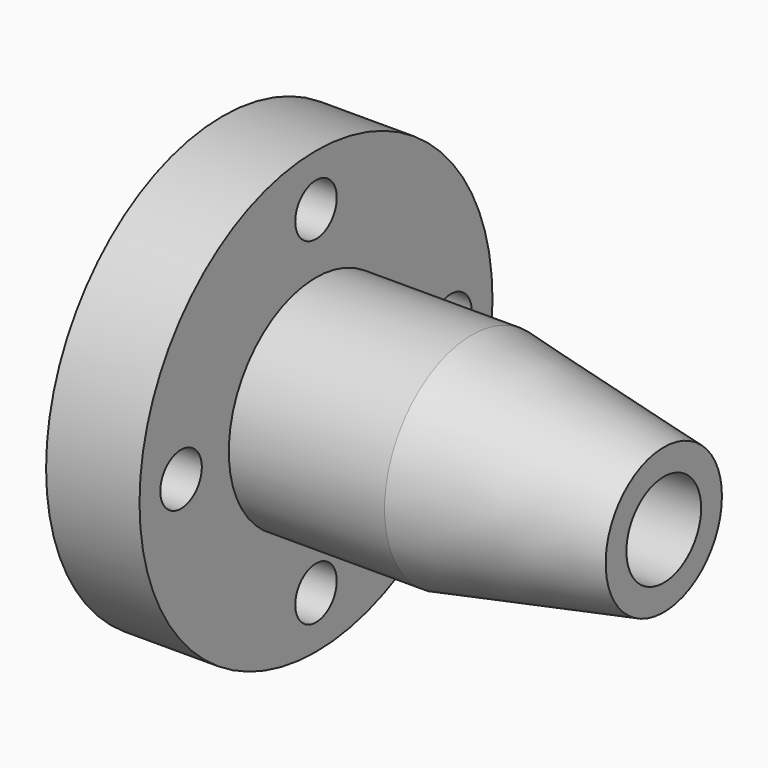
from build123d import *

# Parameters (mm, degrees)
F3_D     = 10
F3_DEPTH = 18


with BuildPart() as f1:
    # F0 (on Top) → F1 (revolve)
    with BuildSketch(Plane.XY):
        Polygon((0, 42.5), (0, 9), (85, 9), (85, 14), (48, 21), (18, 21), (18, 42.5), align=None)
    revolve(axis=Axis((69.263607, 0, 0), (1, 0, 0)))

    # F3
    with Locations(Plane.YZ.offset(18)):
        with Locations((0, 32.5), (-32.5, 0), (0, -32.5), (32.5, 0)):
            Hole(F3_D / 2, depth=F3_DEPTH)


solid = f1.part
